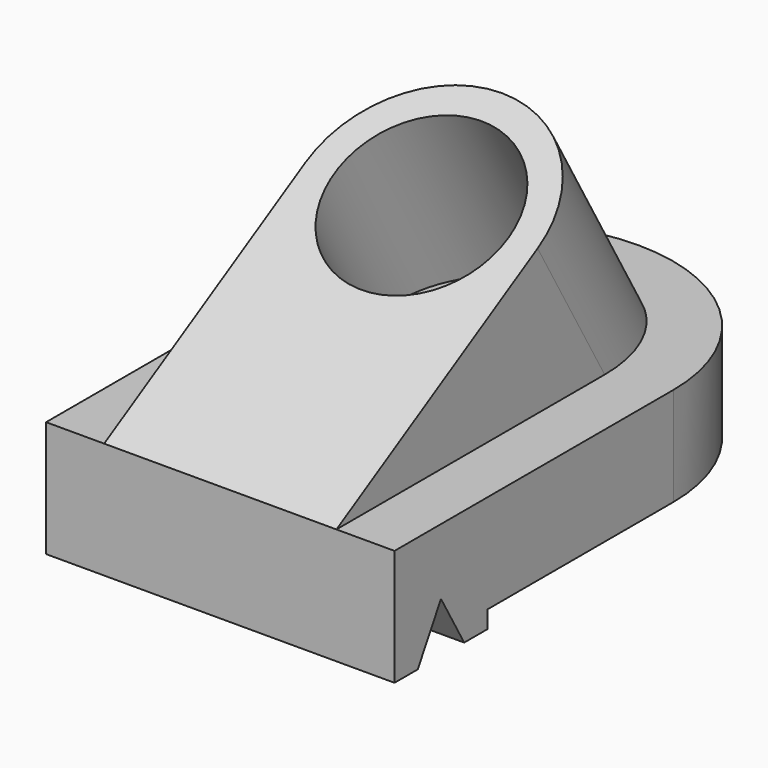
from build123d import *

# Parameters (mm, degrees)
F0_W      = 120
F0_H      = 40
F1_DEPTH  = 120
F3_DEPTH  = 40
F5_R      = 30
F8_DEPTH  = 77.2940758616
F9_W      = 80
F9_H      = 6
F9_W_2    = 71.5949898127
F10_DEPTH = 120
F6_DEPTH  = 120
F7_DEPTH  = 80


with BuildPart() as f1:
    # F0 (on Front) → F1 (new body)
    with BuildSketch(Plane.XZ):
        Rectangle(F0_W, F0_H)
    extrude(amount=-F1_DEPTH)

    # F2 (on face) → F3 (join)
    with BuildSketch(Plane.XY.offset(20)):
        with BuildLine():
            Line((-60, 120), (60, 120))
            ThreePointArc((60, 120), (0, 180), (-60, 120))
        make_face()
    extrude(amount=-F3_DEPTH)

    # F5 (on face) → F8 (join)
    with BuildSketch(Plane(origin=(0, -8.6602540378, 15), x_dir=(1, 0, 0), z_dir=(0, -0.5, 0.8660254038))):
        with BuildLine():
            Line((-40, 10), (0, 10))
            Line((0, 10), (40, 10))
            Line((40, 10), (40, 110))
            ThreePointArc((40, 110), (0, 70), (-40, 110))
            Line((-40, 110), (-40, 10))
        make_face()
        with BuildLine():
            ThreePointArc((-40, 110), (0, 70), (40, 110))
            ThreePointArc((40, 110), (0, 150), (-40, 110))
        make_face()
        with Locations((0, 110)):
            Circle(F5_R, mode=Mode.SUBTRACT)
    extrude(amount=-F8_DEPTH)

    # F9 (on face) → F10 (cut)
    with BuildSketch(Plane.YZ.offset(60)):
        with Locations((80, -17)):
            Rectangle(F9_W, F9_H)
        with Locations((155.7974949063, -17)):
            Rectangle(F9_W_2, F9_H)
    extrude(amount=-F10_DEPTH, mode=Mode.SUBTRACT)

    # F11 (on face) → F6 (cut)
    with BuildSketch(Plane.YZ.offset(60)):
        Polygon((20, -2.6794919243), (20, -20), (30, -20), align=None)
        Polygon((10, -20), (20, -20), (20, -2.6794919243), align=None)
    extrude(amount=-F6_DEPTH, mode=Mode.SUBTRACT)

    # F7 (cut): a face of the model
    f7_faces = [f1.faces().sort_by_distance(p)[0] for p in [
        (40, 49.0157227063, -28.9795444194),
    ]]
    extrude(f7_faces, amount=-F7_DEPTH, mode=Mode.SUBTRACT)


solid = f1.part
